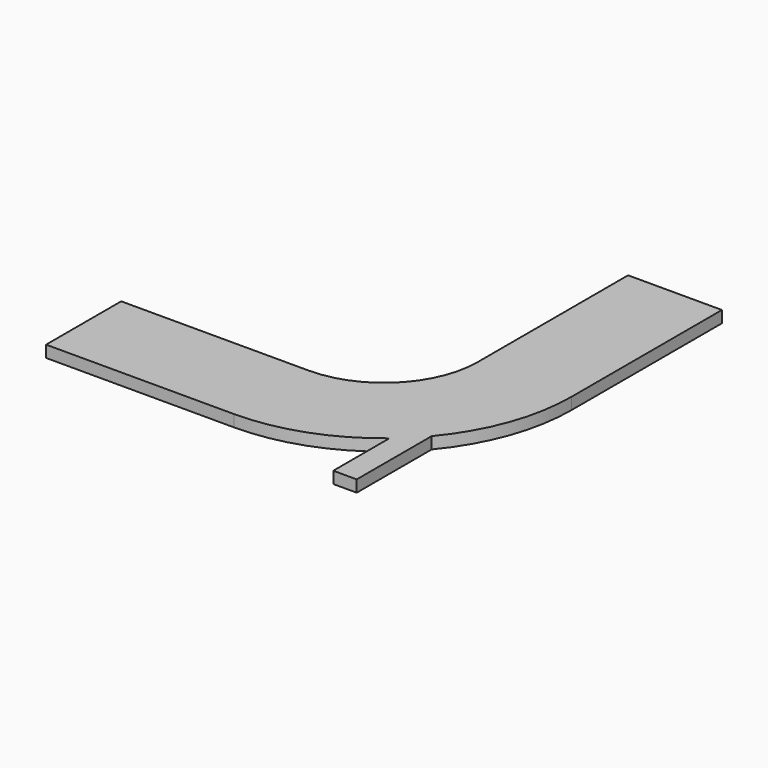
from build123d import *

# Parameters (mm, degrees)
PAD_DEPTH = 2000


with BuildPart() as part:
    # Sketch → Pad (new body)
    with BuildSketch(Plane.XY):
        with BuildLine():
            Line((0, 16000), (32000, 16000))
            ThreePointArc((32000, 16000), (43313.708499, 20686.291501), (48000, 32000))
            Line((48000, 64000), (48000, 32000))
            Line((64000, 64000), (48000, 64000))
            Line((64000, 32000), (64000, 64000))
            ThreePointArc((56550, 11474.46712), (62079.893617, 21082.124749), (64000, 32000))
            Line((56550, -4500), (56550, 11474.46712))
            Line((52550, -4500), (56550, -4500))
            Line((52550, -4500), (52550, 7470.476972))
            ThreePointArc((32000, 0), (42932.869319, 1925.552899), (52550, 7470.476972))
            Line((32000, 0), (0, 0))
            Line((0, 0), (0, 16000))
        make_face()
    extrude(amount=PAD_DEPTH)


solid = part.part
